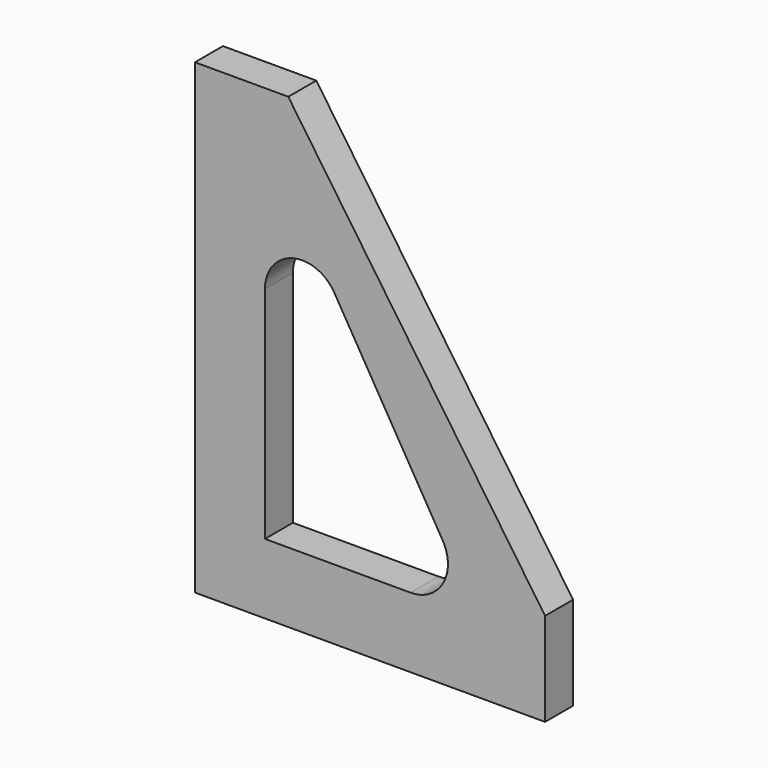
from build123d import *

# Parameters (mm, degrees)
F1_DEPTH = 9.525


with BuildPart() as f1:
    # F0 (on Front) → F1 (new body)
    with BuildSketch(Plane.XZ):
        Polygon((0, 54.649789), (0, 0), (95.25, 0), (95.25, 25.4), (25.4, 127), (0, 127), align=None)
        with BuildLine():
            Line((19.05, 19.05), (19.05, 54.649789))
            Line((19.05, 54.649789), (19.05, 78.921245))
            ThreePointArc((19.05, 78.921245), (26.524791, 88.719982), (37.950641, 84.100704))
            Line((37.950641, 84.100704), (67.408134, 34.389459))
            ThreePointArc((67.408134, 34.389459), (67.494977, 24.179975), (58.667494, 19.05))
            Line((58.667494, 19.05), (19.05, 19.05))
        make_face(mode=Mode.SUBTRACT)
    extrude(amount=F1_DEPTH)


solid = f1.part
